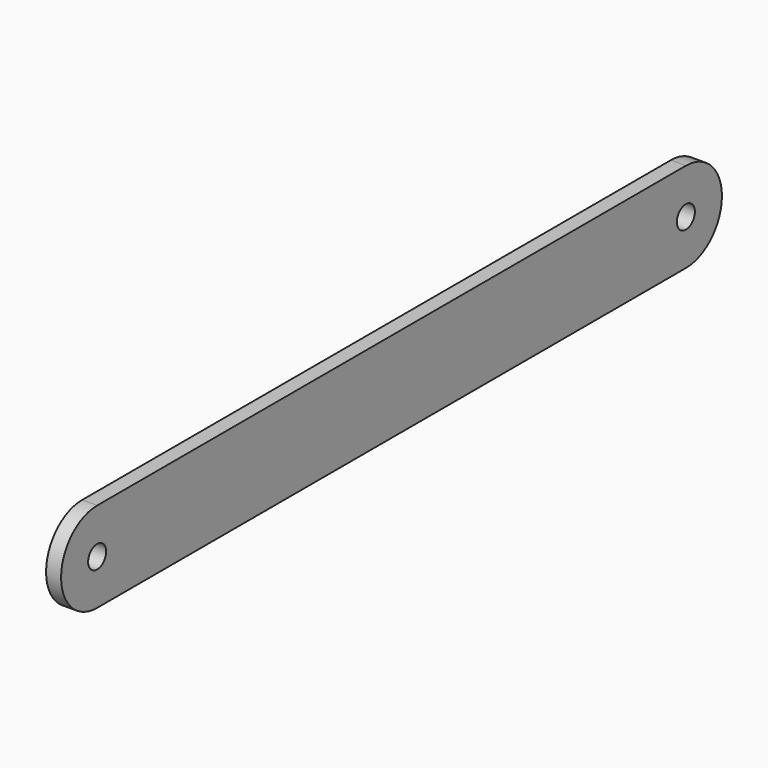
from build123d import *

# Parameters (mm, degrees)
F0_R     = 2.38125
F1_DEPTH = 3.175


with BuildPart() as f1:
    # F0 (on Right) → F1 (new body)
    with BuildSketch(Plane.YZ):
        with BuildLine():
            Line((155.575, 9.525), (0, 9.525))
            ThreePointArc((0, 9.525), (-9.525, 0), (0, -9.525))
            Line((0, -9.525), (155.575, -9.525))
            ThreePointArc((155.575, -9.525), (165.1, 0), (155.575, 9.525))
        make_face()
        Circle(F0_R, mode=Mode.SUBTRACT)
        with Locations((155.575, 0)):
            Circle(F0_R, mode=Mode.SUBTRACT)
    extrude(amount=F1_DEPTH)


solid = f1.part
